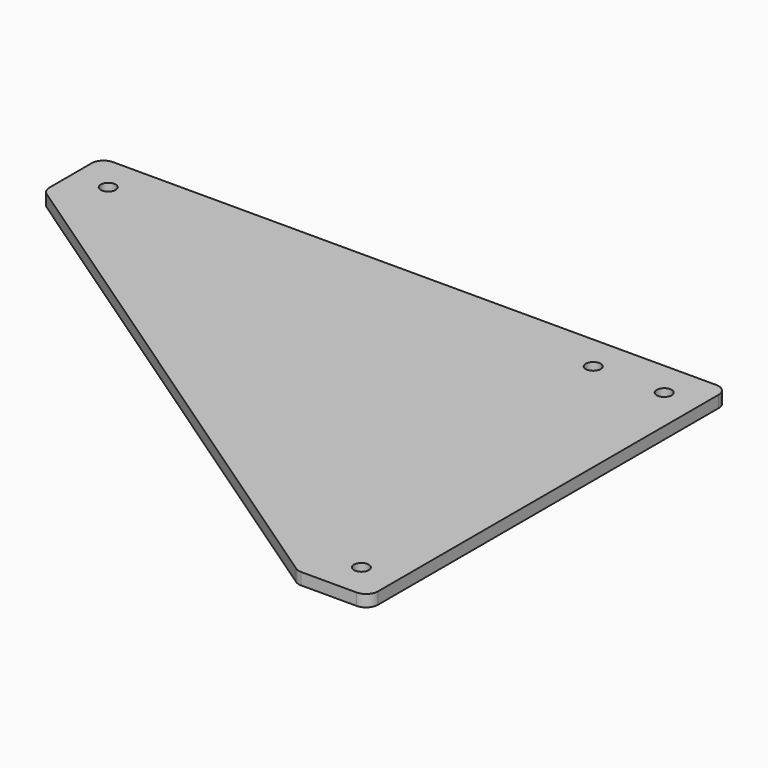
from build123d import *

# Parameters (mm, degrees)
SKETCH_R  = 3.15
PAD_DEPTH = 2.5
FILLET_R  = 5


with BuildPart() as part:
    # Sketch → Pad (new body, symmetric)
    with BuildSketch(Plane.XY):
        Polygon((-250, 15), (15, 15), (15, -175), (-15, -175), (-250, -15), align=None)
        Circle(SKETCH_R, mode=Mode.SUBTRACT)
        with Locations((0, -160)):
            Circle(SKETCH_R, mode=Mode.SUBTRACT)
        with Locations((-30, 0)):
            Circle(SKETCH_R, mode=Mode.SUBTRACT)
        with Locations((-235, 0)):
            Circle(SKETCH_R, mode=Mode.SUBTRACT)
    extrude(amount=PAD_DEPTH, both=True)

    # Fillet
    fillet_edges = [part.edges().sort_by_distance(p)[0] for p in [
        (-250, 15, 0),
        (-250, -15, 0),
        (15, 15, 0),
        (-15, -175, 0),
        (15, -175, 0),
    ]]
    fillet(fillet_edges, radius=FILLET_R)


solid = part.part
